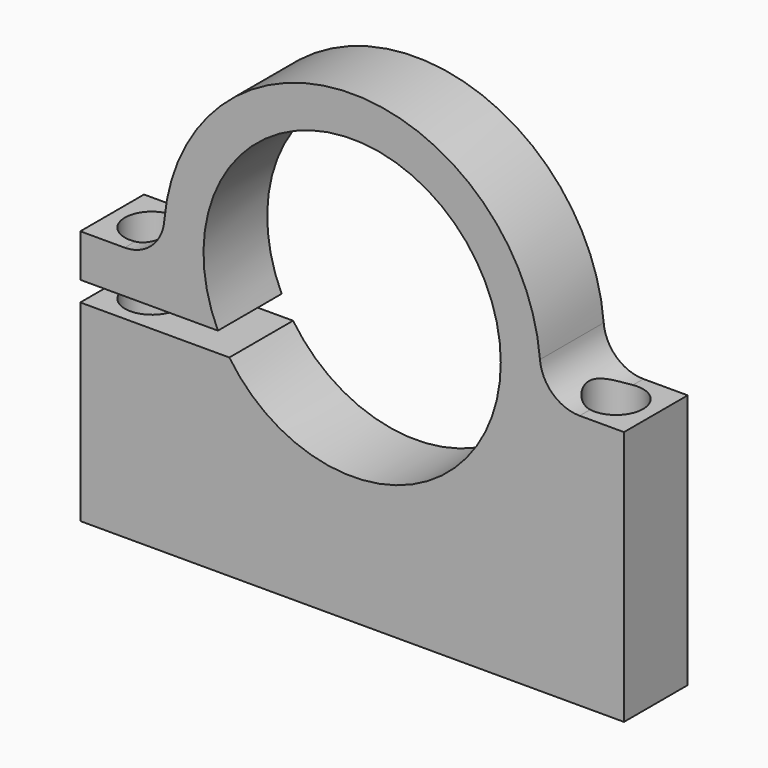
from build123d import *

# Parameters (mm, degrees)
F1_DEPTH = 6.35
F2_R     = 2.159
F3_DEPTH = 38.1


with BuildPart() as f1:
    # F0 (on Front) → F1 (new body)
    with BuildSketch(Plane.XZ):
        with BuildLine():
            ThreePointArc((-10.701751, -5.086618), (10.276912, 5.897987), (-9.790675, -6.674118))
            Line((-9.790675, -6.674118), (-21.670413, -6.674118))
            Line((-21.670413, -6.674118), (-21.670413, -22.018309))
            Line((-21.670413, -22.018309), (21.670413, -22.018309))
            Line((21.670413, -22.018309), (21.670413, -1.679891))
            Line((21.670413, -1.679891), (18.137582, -1.679891))
            ThreePointArc((18.137582, -1.679891), (15.986714, -0.840354), (14.973315, 1.234274))
            ThreePointArc((14.973315, 1.234274), (0, 15.0241), (-14.973315, 1.234274))
            ThreePointArc((-14.973315, 1.234274), (-15.986714, -0.840354), (-18.137582, -1.679891))
            Line((-18.137582, -1.679891), (-21.670413, -1.679891))
            Line((-21.670413, -1.679891), (-21.670413, -5.086618))
            Line((-21.670413, -5.086618), (-10.701751, -5.086618))
        make_face()
    extrude(amount=F1_DEPTH)

    # F2 (on face) → F3 (cut, symmetric)
    with BuildSketch(Plane.XY.offset(-1.679891)):
        with Locations((-18.495413, -3.175)):
            Circle(F2_R)
        with Locations((18.495413, -3.175)):
            Circle(F2_R)
    extrude(amount=F3_DEPTH, both=True, mode=Mode.SUBTRACT)


solid = f1.part
